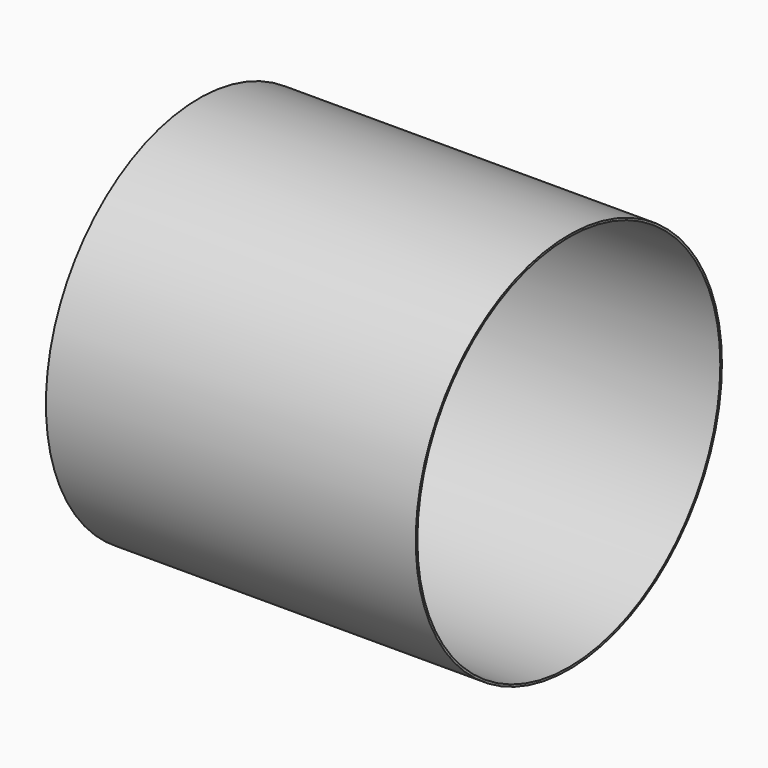
from build123d import *

# Parameters (mm, degrees)
F0_R     = 238
F0_R_2   = 235.5
F1_DEPTH = 460
F2_R     = 238
F3_DEPTH = 5
F5_D     = 250
F5_DEPTH = 430


with BuildPart() as f1:
    # F0 (on Right) → F1 (new body)
    with BuildSketch(Plane.YZ):
        Circle(F0_R)
        Circle(F0_R_2, mode=Mode.SUBTRACT)
    extrude(amount=F1_DEPTH)

    # F2 (on Right) → F3 (join)
    with BuildSketch(Plane.YZ):
        Circle(F2_R)
    extrude(amount=F3_DEPTH)

    # F5
    with Locations(Plane(origin=(0, 0, 0), x_dir=(0, -1, 0), z_dir=(-1, 0, 0))):
        with Locations((0, 0)):
            Hole(F5_D / 2, depth=F5_DEPTH)


solid = f1.part
